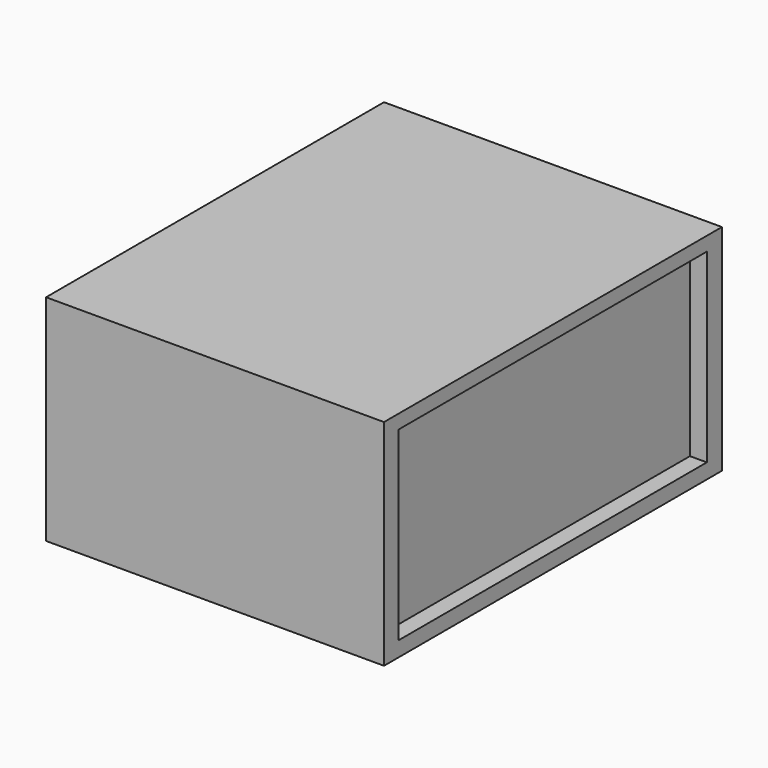
from build123d import *

# Parameters (mm, degrees)
SKETCH_W     = 100
SKETCH_H     = 125
PAD_DEPTH    = 63.5
SKETCH001_W  = 114.07852
SKETCH001_H  = 54.910191
POCKET_DEPTH = 5


with BuildPart() as part:
    # Sketch → Pad (new body)
    with BuildSketch(Plane.XY):
        with Locations((50, 62.5)):
            Rectangle(SKETCH_W, SKETCH_H)
    extrude(amount=PAD_DEPTH)

    # Sketch001 (on Face2 of Pad) → Pocket (cut)
    with BuildSketch(Plane.YZ.offset(100)):
        with Locations((62.373765, 31.911265)):
            Rectangle(SKETCH001_W, SKETCH001_H)
    extrude(amount=-POCKET_DEPTH, mode=Mode.SUBTRACT)


solid = part.part
